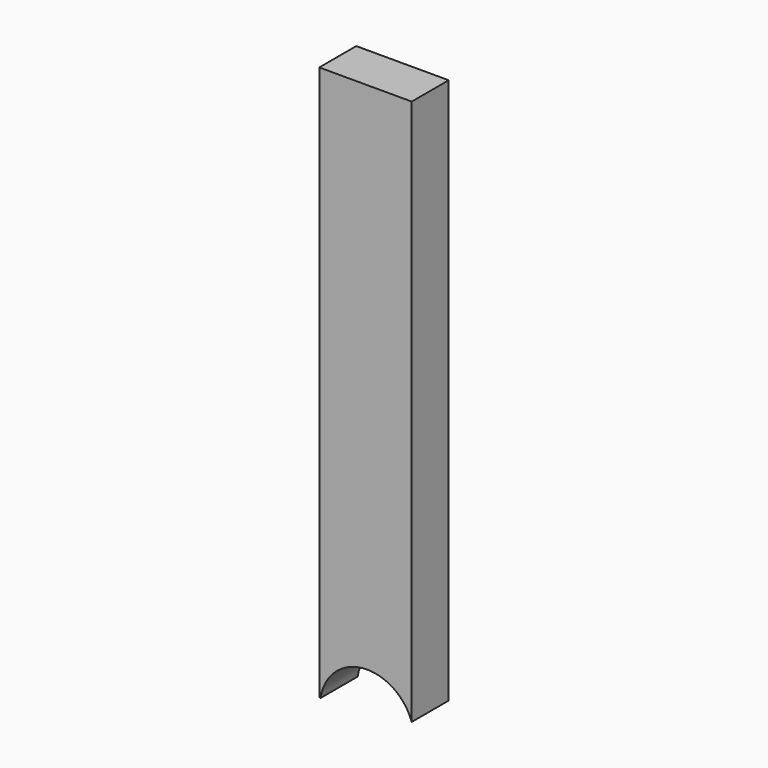
from build123d import *

# Parameters (mm, degrees)
F0_W     = 12.7
F0_H     = 76.2
F1_DEPTH = 6.35
F2_R     = 6.475828
F3_DEPTH = 12.7


with BuildPart() as f1:
    # F0 (on Front) → F1 (new body)
    with BuildSketch(Plane.XZ):
        with Locations((-21.859534, 5.321618)):
            Rectangle(F0_W, F0_H)
    extrude(amount=F1_DEPTH)

    # F2 (on Front) → F3 (cut, symmetric)
    with BuildSketch(Plane.XZ):
        with Locations((-21.623934, -33.730884)):
            Circle(F2_R)
    extrude(amount=F3_DEPTH, both=True, mode=Mode.SUBTRACT)


solid = f1.part
